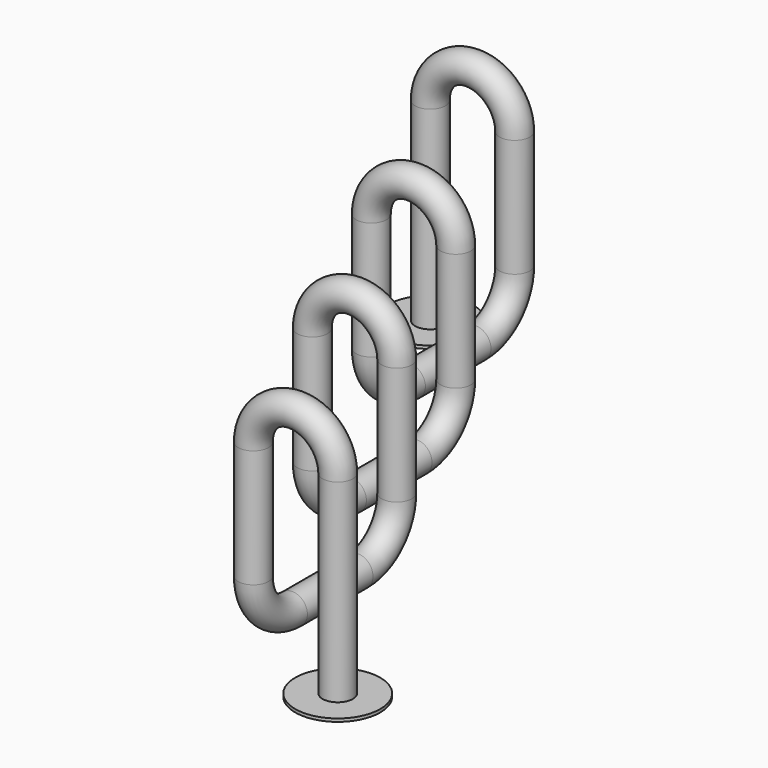
from build123d import *

# Parameters (mm, degrees)
F12_R      = 63.5
F13_FACE_R = 63.5
F15_R      = 177.8
F15_R_2    = 63.5
F16_DEPTH  = 12.7
F17_R      = 177.8
F17_R_2    = 63.5
F18_DEPTH  = 12.7


with BuildPart() as f13:
    # F13: sweep along a path in F1, F3, F5, F7, F9, F11
    with BuildLine(Plane.YZ) as f13_path:
        Line((0, 0), (0, -492.97463))
        ThreePointArc((0, -492.97463), (59.5159020629, -636.6587279371), (203.2, -696.17463))
        Line((203.2, -696.17463), (546.1, -696.17463))
        ThreePointArc((546.1, -696.17463), (689.7840979371, -636.6587279371), (749.3, -492.97463))
        Line((749.3, -492.97463), (749.3, 0))
    with BuildLine(Plane.XZ.offset(-749.3)) as f13_path_2:
        ThreePointArc((0, 0), (-176.403, 176.403), (-352.806, 0))
    with BuildLine(Plane.YZ.offset(-352.806)) as f13_path_3:
        Line((749.3, 0), (749.3, -492.97463))
        ThreePointArc((749.3, -492.97463), (808.8159020629, -636.6587279371), (952.5, -696.17463))
        Line((952.5, -696.17463), (1295.4, -696.17463))
        ThreePointArc((1295.4, -696.17463), (1439.0840979371, -636.6587279371), (1498.6, -492.97463))
        Line((1498.6, -492.97463), (1498.6, 0))
    with BuildLine(Plane.XZ.offset(-1498.6)) as f13_path_4:
        ThreePointArc((-352.806, 0), (-529.209, 176.403), (-705.612, 0))
    with BuildLine(Plane.YZ.offset(-705.612)) as f13_path_5:
        Line((1498.6, 0), (1498.6, -492.97463))
        ThreePointArc((1498.6, -492.97463), (1558.1159020629, -636.6587279371), (1701.8, -696.17463))
        Line((1701.8, -696.17463), (2044.7, -696.17463))
        ThreePointArc((2044.7, -696.17463), (2188.3840979371, -636.6587279371), (2247.9, -492.97463))
        Line((2247.9, -492.97463), (2247.9, 0))
    with BuildLine(Plane.XZ.offset(-2247.9)) as f13_path_6:
        ThreePointArc((-705.612, 0), (-882.015, 176.403), (-1058.418, 0))
        Line((-1058.418, 0), (-1058.418, -810.474644478))
    # F12 (on Top) → F13 (sweep)
    with BuildSketch(Plane.XY):
        Circle(F12_R)
    sweep(path=f13_path.line + f13_path_2.line + f13_path_3.line + f13_path_4.line + f13_path_5.line + f13_path_6.line)

    # F14: sweep along a path in F0
    with BuildLine(Plane.XZ) as f14_path:
        ThreePointArc((0, 0), (176.403, 176.403), (352.806, 0))
        Line((352.806, 0), (352.806, -810.474644478))
    # F13_face (on face) → F14 (sweep)
    with BuildSketch(Plane.XY):
        Circle(F13_FACE_R)
    sweep(path=f14_path.line)


with BuildPart() as f16:
    # F15 (on face) → F16 (new body)
    with BuildSketch(Plane(origin=(0, 0, -810.474644478), x_dir=(1, 0, 0), z_dir=(0, 0, -1))):
        with Locations((352.806, 0)):
            Circle(F15_R)
        with Locations((352.806, 0)):
            Circle(F15_R_2, mode=Mode.SUBTRACT)
    extrude(amount=F16_DEPTH)


with BuildPart() as f18:
    # F17 (on face) → F18 (new body)
    with BuildSketch(Plane(origin=(0, 0, -810.474644478), x_dir=(1, 0, 0), z_dir=(0, 0, -1))):
        with Locations((-1058.418, -2247.9)):
            Circle(F17_R)
        with Locations((-1058.418, -2247.9)):
            Circle(F17_R_2, mode=Mode.SUBTRACT)
    extrude(amount=F18_DEPTH)


solid = Compound([f13.part, f16.part, f18.part])
